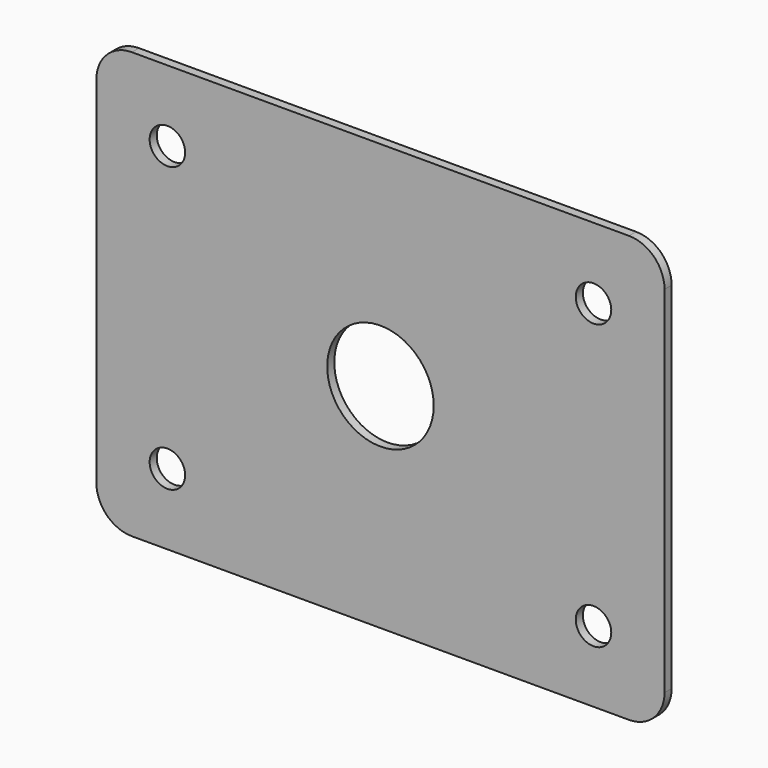
from build123d import *

# Parameters (mm, degrees)
F0_W     = 101.6
F0_H     = 76.2
F0_R     = 3.175
F0_R_2   = 9.525
F1_DEPTH = 1.5875
F2_R     = 6.35


with BuildPart() as f1:
    # F0 (on Front) → F1 (new body)
    with BuildSketch(Plane.XZ):
        Rectangle(F0_W, F0_H)
        with Locations((-38.1, -25.4)):
            Circle(F0_R, mode=Mode.SUBTRACT)
        with Locations((38.1, -25.4)):
            Circle(F0_R, mode=Mode.SUBTRACT)
        Circle(F0_R_2, mode=Mode.SUBTRACT)
        with Locations((-38.1, 25.4)):
            Circle(F0_R, mode=Mode.SUBTRACT)
        with Locations((38.1, 25.4)):
            Circle(F0_R, mode=Mode.SUBTRACT)
    extrude(amount=F1_DEPTH)

    # F2
    f2_edges = [f1.edges().sort_by_distance(p)[0] for p in [
        (50.8, -0.79375, 38.1),
        (50.8, -0.79375, -38.1),
        (-50.8, -0.79375, -38.1),
        (-50.8, -0.79375, 38.1),
    ]]
    fillet(f2_edges, radius=F2_R)


solid = f1.part
